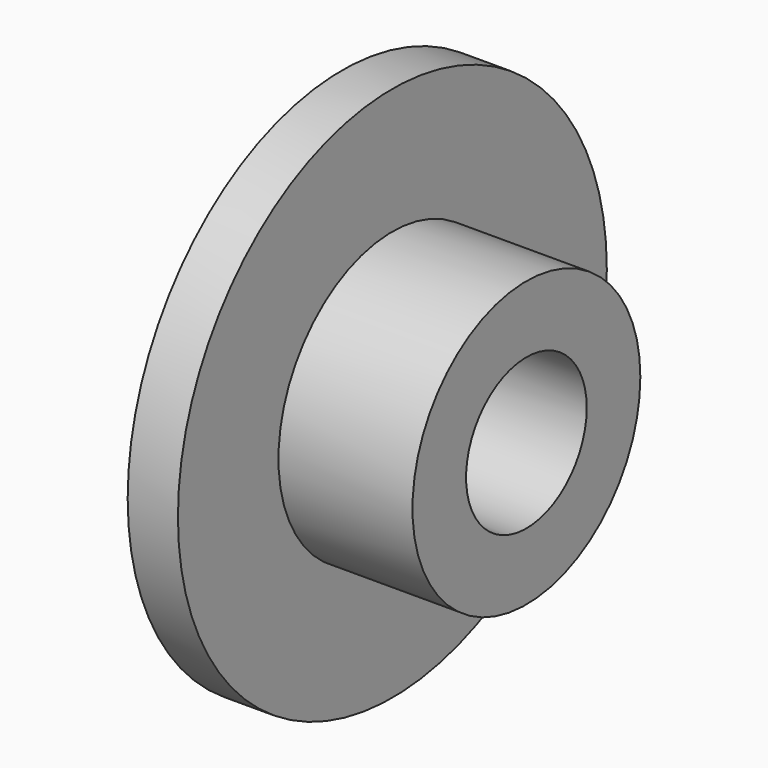
from build123d import *

# Parameters (mm, degrees)
F0_R     = 4.25
F0_R_2   = 2.25
F1_DEPTH = 4
F0_R_3   = 8
F0_R_4   = 5
F2_DEPTH = 1.5


with BuildPart() as f1:
    # F0 (on Right) → F1 (new body)
    with BuildSketch(Plane.YZ):
        with Locations((-5.2978091688, 6.2685288617)):
            Circle(F0_R)
        with Locations((-5.2978091688, 6.2685288617)):
            Circle(F0_R_2, mode=Mode.SUBTRACT)
    extrude(amount=F1_DEPTH)

    # F0 (on Right) → F2 (join)
    with BuildSketch(Plane.YZ):
        with Locations((-5.2978091688, 6.2685288617)):
            Circle(F0_R_3)
        with Locations((-5.2978091688, 6.2685288617)):
            Circle(F0_R_4, mode=Mode.SUBTRACT)
        with Locations((-5.2978091688, 6.2685288617)):
            Circle(F0_R_4)
        with Locations((-5.2978091688, 6.2685288617)):
            Circle(F0_R, mode=Mode.SUBTRACT)
        with Locations((-5.2978091688, 6.2685288617)):
            Circle(F0_R)
        with Locations((-5.2978091688, 6.2685288617)):
            Circle(F0_R_2, mode=Mode.SUBTRACT)
    extrude(amount=-F2_DEPTH)


solid = f1.part
